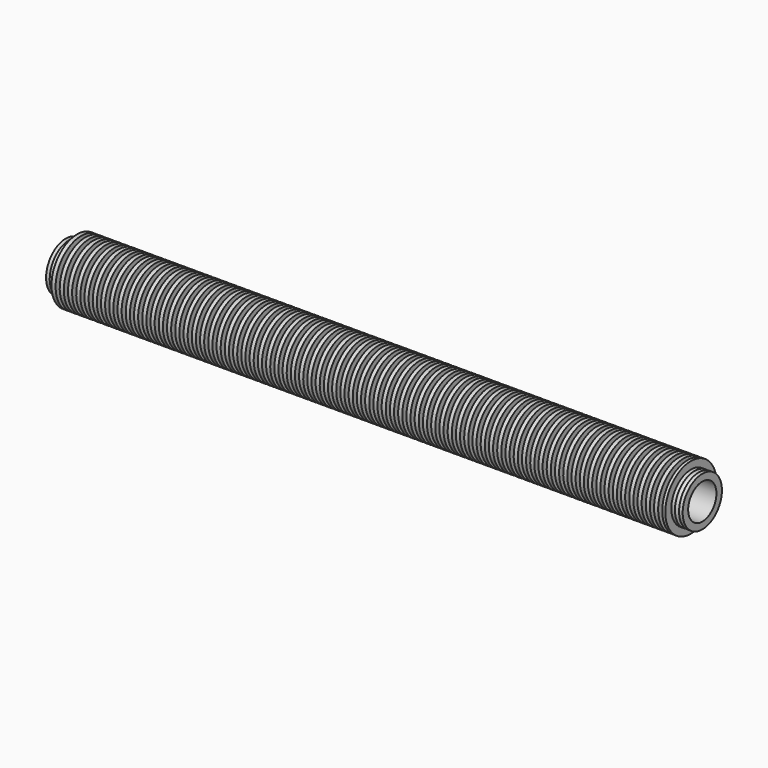
from build123d import *


with BuildPart() as f1:
    # F0 (on Front) → F1 (revolve)
    with BuildSketch(Plane.XZ):
        with BuildLine():
            Line((2.23, 15.1), (0, 15.1))
            Line((0, 15.1), (0, 10.868298))
            Line((0, 10.868298), (0, 1))
            Line((0, 1), (2.289033, 1))
            Line((2.289033, 1), (2.289033, 10.868298))
            Line((2.289033, 10.868298), (391.795, 10.868298))
            Line((391.795, 10.868298), (391.795, 15.1))
            Line((391.795, 15.1), (389.5673, 15.1))
            ThreePointArc((389.5673, 15.1), (388.2973, 13.83), (387.0273, 15.1))
            Line((387.0273, 15.1), (384.7996, 15.1))
            Line((384.7996, 15.1), (384.7996, 19.7104))
            Line((384.7996, 19.7104), (382.92, 19.7104))
            Line((382.92, 19.7104), (382.92, 15.1))
            Line((382.92, 15.1), (380.38, 15.1))
            Line((380.38, 15.1), (380.38, 19.7))
            Line((380.38, 19.7), (377.84, 19.7))
            Line((377.84, 19.7), (377.84, 15.1))
            Line((377.84, 15.1), (375.3, 15.1))
            Line((375.3, 15.1), (375.3, 19.7))
            Line((375.3, 19.7), (372.76, 19.7))
            Line((372.76, 19.7), (372.76, 15.1))
            Line((372.76, 15.1), (370.22, 15.1))
            Line((370.22, 15.1), (370.22, 19.7))
            Line((370.22, 19.7), (367.68, 19.7))
            Line((367.68, 19.7), (367.68, 15.1))
            Line((367.68, 15.1), (365.14, 15.1))
            Line((365.14, 15.1), (365.14, 19.7))
            Line((365.14, 19.7), (362.6, 19.7))
            Line((362.6, 19.7), (362.6, 15.1))
            Line((362.6, 15.1), (360.06, 15.1))
            Line((360.06, 15.1), (360.06, 19.7))
            Line((360.06, 19.7), (357.52, 19.7))
            Line((357.52, 19.7), (357.52, 15.1))
            Line((357.52, 15.1), (354.98, 15.1))
            Line((354.98, 15.1), (354.98, 19.7))
            Line((354.98, 19.7), (352.44, 19.7))
            Line((352.44, 19.7), (352.44, 15.1))
            Line((352.44, 15.1), (349.9, 15.1))
            Line((349.9, 15.1), (349.9, 19.7))
            Line((349.9, 19.7), (347.36, 19.7))
            Line((347.36, 19.7), (347.36, 15.1))
            Line((347.36, 15.1), (344.82, 15.1))
            Line((344.82, 15.1), (344.82, 19.7))
            Line((344.82, 19.7), (342.28, 19.7))
            Line((342.28, 19.7), (342.28, 15.1))
            Line((342.28, 15.1), (339.74, 15.1))
            Line((339.74, 15.1), (339.74, 19.7))
            Line((339.74, 19.7), (337.2, 19.7))
            Line((337.2, 19.7), (337.2, 15.1))
            Line((337.2, 15.1), (334.66, 15.1))
            Line((334.66, 15.1), (334.66, 19.7))
            Line((334.66, 19.7), (332.12, 19.7))
            Line((332.12, 19.7), (332.12, 15.1))
            Line((332.12, 15.1), (329.58, 15.1))
            Line((329.58, 15.1), (329.58, 19.7))
            Line((329.58, 19.7), (327.04, 19.7))
            Line((327.04, 19.7), (327.04, 15.1))
            Line((327.04, 15.1), (324.5, 15.1))
            Line((324.5, 15.1), (324.5, 19.7))
            Line((324.5, 19.7), (321.96, 19.7))
            Line((321.96, 19.7), (321.96, 15.1))
            Line((321.96, 15.1), (319.42, 15.1))
            Line((319.42, 15.1), (319.42, 19.7))
            Line((319.42, 19.7), (316.88, 19.7))
            Line((316.88, 19.7), (316.88, 15.1))
            Line((316.88, 15.1), (314.34, 15.1))
            Line((314.34, 15.1), (314.34, 19.7))
            Line((314.34, 19.7), (311.8, 19.7))
            Line((311.8, 19.7), (311.8, 15.1))
            Line((311.8, 15.1), (309.26, 15.1))
            Line((309.26, 15.1), (309.26, 19.7))
            Line((309.26, 19.7), (306.72, 19.7))
            Line((306.72, 19.7), (306.72, 15.1))
            Line((306.72, 15.1), (304.18, 15.1))
            Line((304.18, 15.1), (304.18, 19.7))
            Line((304.18, 19.7), (301.64, 19.7))
            Line((301.64, 19.7), (301.64, 15.1))
            Line((301.64, 15.1), (299.1, 15.1))
            Line((299.1, 15.1), (299.1, 19.7))
            Line((299.1, 19.7), (296.56, 19.7))
            Line((296.56, 19.7), (296.56, 15.1))
            Line((296.56, 15.1), (294.02, 15.1))
            Line((294.02, 15.1), (294.02, 19.7))
            Line((294.02, 19.7), (291.48, 19.7))
            Line((291.48, 19.7), (291.48, 15.1))
            Line((291.48, 15.1), (288.94, 15.1))
            Line((288.94, 15.1), (288.94, 19.7))
            Line((288.94, 19.7), (286.4, 19.7))
            Line((286.4, 19.7), (286.4, 15.1))
            Line((286.4, 15.1), (283.86, 15.1))
            Line((283.86, 15.1), (283.86, 19.7))
            Line((283.86, 19.7), (281.32, 19.7))
            Line((281.32, 19.7), (281.32, 15.1))
            Line((281.32, 15.1), (278.78, 15.1))
            Line((278.78, 15.1), (278.78, 19.7))
            Line((278.78, 19.7), (276.24, 19.7))
            Line((276.24, 19.7), (276.24, 15.1))
            Line((276.24, 15.1), (273.7, 15.1))
            Line((273.7, 15.1), (273.7, 19.7))
            Line((273.7, 19.7), (271.16, 19.7))
            Line((271.16, 19.7), (271.16, 15.1))
            Line((271.16, 15.1), (268.62, 15.1))
            Line((268.62, 15.1), (268.62, 19.7))
            Line((268.62, 19.7), (266.08, 19.7))
            Line((266.08, 19.7), (266.08, 15.1))
            Line((266.08, 15.1), (263.54, 15.1))
            Line((263.54, 15.1), (263.54, 19.7))
            Line((263.54, 19.7), (261, 19.7))
            Line((261, 19.7), (261, 15.1))
            Line((261, 15.1), (258.46, 15.1))
            Line((258.46, 15.1), (258.46, 19.7))
            Line((258.46, 19.7), (255.92, 19.7))
            Line((255.92, 19.7), (255.92, 15.1))
            Line((255.92, 15.1), (253.38, 15.1))
            Line((253.38, 15.1), (253.38, 19.7))
            Line((253.38, 19.7), (250.84, 19.7))
            Line((250.84, 19.7), (250.84, 15.1))
            Line((250.84, 15.1), (248.3, 15.1))
            Line((248.3, 15.1), (248.3, 19.7))
            Line((248.3, 19.7), (245.76, 19.7))
            Line((245.76, 19.7), (245.76, 15.1))
            Line((245.76, 15.1), (243.22, 15.1))
            Line((243.22, 15.1), (243.22, 19.7))
            Line((243.22, 19.7), (240.68, 19.7))
            Line((240.68, 19.7), (240.68, 15.1))
            Line((240.68, 15.1), (238.14, 15.1))
            Line((238.14, 15.1), (238.14, 19.7))
            Line((238.14, 19.7), (235.6, 19.7))
            Line((235.6, 19.7), (235.6, 15.1))
            Line((235.6, 15.1), (233.06, 15.1))
            Line((233.06, 15.1), (233.06, 19.7))
            Line((233.06, 19.7), (230.52, 19.7))
            Line((230.52, 19.7), (230.52, 15.1))
            Line((230.52, 15.1), (227.98, 15.1))
            Line((227.98, 15.1), (227.98, 19.7))
            Line((227.98, 19.7), (225.44, 19.7))
            Line((225.44, 19.7), (225.44, 15.1))
            Line((225.44, 15.1), (222.9, 15.1))
            Line((222.9, 15.1), (222.9, 19.7))
            Line((222.9, 19.7), (220.36, 19.7))
            Line((220.36, 19.7), (220.36, 15.1))
            Line((220.36, 15.1), (217.82, 15.1))
            Line((217.82, 15.1), (217.82, 19.7))
            Line((217.82, 19.7), (215.28, 19.7))
            Line((215.28, 19.7), (215.28, 15.1))
            Line((215.28, 15.1), (212.74, 15.1))
            Line((212.74, 15.1), (212.74, 19.7))
            Line((212.74, 19.7), (210.2, 19.7))
            Line((210.2, 19.7), (210.2, 15.1))
            Line((210.2, 15.1), (207.66, 15.1))
            Line((207.66, 15.1), (207.66, 19.7))
            Line((207.66, 19.7), (205.12, 19.7))
            Line((205.12, 19.7), (205.12, 15.1))
            Line((205.12, 15.1), (202.58, 15.1))
            Line((202.58, 15.1), (202.58, 19.7))
            Line((202.58, 19.7), (200.04, 19.7))
            Line((200.04, 19.7), (200.04, 15.1))
            Line((200.04, 15.1), (197.5, 15.1))
            Line((197.5, 15.1), (197.5, 19.7))
            Line((197.5, 19.7), (194.96, 19.7))
            Line((194.96, 19.7), (194.96, 15.1))
            Line((194.96, 15.1), (192.42, 15.1))
            Line((192.42, 15.1), (192.42, 19.7))
            Line((192.42, 19.7), (189.88, 19.7))
            Line((189.88, 19.7), (189.88, 15.1))
            Line((189.88, 15.1), (187.34, 15.1))
            Line((187.34, 15.1), (187.34, 19.7))
            Line((187.34, 19.7), (184.8, 19.7))
            Line((184.8, 19.7), (184.8, 15.1))
            Line((184.8, 15.1), (182.26, 15.1))
            Line((182.26, 15.1), (182.26, 19.7))
            Line((182.26, 19.7), (179.72, 19.7))
            Line((179.72, 19.7), (179.72, 15.1))
            Line((179.72, 15.1), (177.18, 15.1))
            Line((177.18, 15.1), (177.18, 19.7))
            Line((177.18, 19.7), (174.64, 19.7))
            Line((174.64, 19.7), (174.64, 15.1))
            Line((174.64, 15.1), (172.1, 15.1))
            Line((172.1, 15.1), (172.1, 19.7))
            Line((172.1, 19.7), (169.56, 19.7))
            Line((169.56, 19.7), (169.56, 15.1))
            Line((169.56, 15.1), (167.02, 15.1))
            Line((167.02, 15.1), (167.02, 19.7))
            Line((167.02, 19.7), (164.48, 19.7))
            Line((164.48, 19.7), (164.48, 15.1))
            Line((164.48, 15.1), (161.94, 15.1))
            Line((161.94, 15.1), (161.94, 19.7))
            Line((161.94, 19.7), (159.4, 19.7))
            Line((159.4, 19.7), (159.4, 15.1))
            Line((159.4, 15.1), (156.86, 15.1))
            Line((156.86, 15.1), (156.86, 19.7))
            Line((156.86, 19.7), (154.32, 19.7))
            Line((154.32, 19.7), (154.32, 15.1))
            Line((154.32, 15.1), (151.78, 15.1))
            Line((151.78, 15.1), (151.78, 19.7))
            Line((151.78, 19.7), (149.24, 19.7))
            Line((149.24, 19.7), (149.24, 15.1))
            Line((149.24, 15.1), (146.7, 15.1))
            Line((146.7, 15.1), (146.7, 19.7))
            Line((146.7, 19.7), (144.16, 19.7))
            Line((144.16, 19.7), (144.16, 15.1))
            Line((144.16, 15.1), (141.62, 15.1))
            Line((141.62, 15.1), (141.62, 19.7))
            Line((141.62, 19.7), (139.08, 19.7))
            Line((139.08, 19.7), (139.08, 15.1))
            Line((139.08, 15.1), (136.54, 15.1))
            Line((136.54, 15.1), (136.54, 19.7))
            Line((136.54, 19.7), (134, 19.7))
            Line((134, 19.7), (134, 15.1))
            Line((134, 15.1), (131.46, 15.1))
            Line((131.46, 15.1), (131.46, 19.7))
            Line((131.46, 19.7), (128.92, 19.7))
            Line((128.92, 19.7), (128.92, 15.1))
            Line((128.92, 15.1), (126.38, 15.1))
            Line((126.38, 15.1), (126.38, 19.7))
            Line((126.38, 19.7), (123.84, 19.7))
            Line((123.84, 19.7), (123.84, 15.1))
            Line((123.84, 15.1), (121.3, 15.1))
            Line((121.3, 15.1), (121.3, 19.7))
            Line((121.3, 19.7), (118.76, 19.7))
            Line((118.76, 19.7), (118.76, 15.1))
            Line((118.76, 15.1), (116.22, 15.1))
            Line((116.22, 15.1), (116.22, 19.7))
            Line((116.22, 19.7), (113.68, 19.7))
            Line((113.68, 19.7), (113.68, 15.1))
            Line((113.68, 15.1), (111.14, 15.1))
            Line((111.14, 15.1), (111.14, 19.7))
            Line((111.14, 19.7), (108.6, 19.7))
            Line((108.6, 19.7), (108.6, 15.1))
            Line((108.6, 15.1), (106.06, 15.1))
            Line((106.06, 15.1), (106.06, 19.7))
            Line((106.06, 19.7), (103.52, 19.7))
            Line((103.52, 19.7), (103.52, 15.1))
            Line((103.52, 15.1), (100.98, 15.1))
            Line((100.98, 15.1), (100.98, 19.7))
            Line((100.98, 19.7), (98.44, 19.7))
            Line((98.44, 19.7), (98.44, 15.1))
            Line((98.44, 15.1), (95.9, 15.1))
            Line((95.9, 15.1), (95.9, 19.7))
            Line((95.9, 19.7), (93.36, 19.7))
            Line((93.36, 19.7), (93.36, 15.1))
            Line((93.36, 15.1), (90.82, 15.1))
            Line((90.82, 15.1), (90.82, 19.7))
            Line((90.82, 19.7), (88.28, 19.7))
            Line((88.28, 19.7), (88.28, 15.1))
            Line((88.28, 15.1), (85.74, 15.1))
            Line((85.74, 15.1), (85.74, 19.7))
            Line((85.74, 19.7), (83.2, 19.7))
            Line((83.2, 19.7), (83.2, 15.1))
            Line((83.2, 15.1), (80.66, 15.1))
            Line((80.66, 15.1), (80.66, 19.7))
            Line((80.66, 19.7), (78.12, 19.7))
            Line((78.12, 19.7), (78.12, 15.1))
            Line((78.12, 15.1), (75.58, 15.1))
            Line((75.58, 15.1), (75.58, 19.7))
            Line((75.58, 19.7), (73.04, 19.7))
            Line((73.04, 19.7), (73.04, 15.1))
            Line((73.04, 15.1), (70.5, 15.1))
            Line((70.5, 15.1), (70.5, 19.7))
            Line((70.5, 19.7), (67.96, 19.7))
            Line((67.96, 19.7), (67.96, 15.1))
            Line((67.96, 15.1), (65.42, 15.1))
            Line((65.42, 15.1), (65.42, 19.7))
            Line((65.42, 19.7), (62.88, 19.7))
            Line((62.88, 19.7), (62.88, 15.1))
            Line((62.88, 15.1), (60.34, 15.1))
            Line((60.34, 15.1), (60.34, 19.7))
            Line((60.34, 19.7), (57.8, 19.7))
            Line((57.8, 19.7), (57.8, 15.1))
            Line((57.8, 15.1), (55.26, 15.1))
            Line((55.26, 15.1), (55.26, 19.7))
            Line((55.26, 19.7), (52.72, 19.7))
            Line((52.72, 19.7), (52.72, 15.1))
            Line((52.72, 15.1), (50.18, 15.1))
            Line((50.18, 15.1), (50.18, 19.7))
            Line((50.18, 19.7), (47.64, 19.7))
            Line((47.64, 19.7), (47.64, 15.1))
            Line((47.64, 15.1), (45.1, 15.1))
            Line((45.1, 15.1), (45.1, 19.7))
            Line((45.1, 19.7), (42.56, 19.7))
            Line((42.56, 19.7), (42.56, 15.1))
            Line((42.56, 15.1), (40.02, 15.1))
            Line((40.02, 15.1), (40.02, 19.7))
            Line((40.02, 19.7), (37.48, 19.7))
            Line((37.48, 19.7), (37.48, 15.1))
            Line((37.48, 15.1), (34.94, 15.1))
            Line((34.94, 15.1), (34.94, 19.7))
            Line((34.94, 19.7), (32.4, 19.7))
            Line((32.4, 19.7), (32.4, 15.1))
            Line((32.4, 15.1), (29.86, 15.1))
            Line((29.86, 15.1), (29.86, 19.7))
            Line((29.86, 19.7), (27.32, 19.7))
            Line((27.32, 19.7), (27.32, 15.1))
            Line((27.32, 15.1), (24.78, 15.1))
            Line((24.78, 15.1), (24.78, 19.7))
            Line((24.78, 19.7), (22.24, 19.7))
            Line((22.24, 19.7), (22.24, 15.1))
            Line((22.24, 15.1), (19.7, 15.1))
            Line((19.7, 15.1), (19.7, 19.7))
            Line((19.7, 19.7), (17.16, 19.7))
            Line((17.16, 19.7), (17.16, 15.1))
            Line((17.16, 15.1), (14.62, 15.1))
            Line((14.62, 15.1), (14.62, 19.7))
            Line((14.62, 19.7), (12.08, 19.7))
            Line((12.08, 19.7), (12.08, 15.1))
            Line((12.08, 15.1), (9.54, 15.1))
            Line((9.54, 15.1), (9.54, 19.7))
            Line((9.54, 19.7), (7, 19.7))
            Line((7, 19.7), (7, 15.1))
            Line((7, 15.1), (4.77, 15.1))
            ThreePointArc((4.77, 15.1), (3.5, 13.83), (2.23, 15.1))
        make_face()
    revolve(axis=Axis((7.634324, 0, 0), (1, 0, 0)))


solid = f1.part
